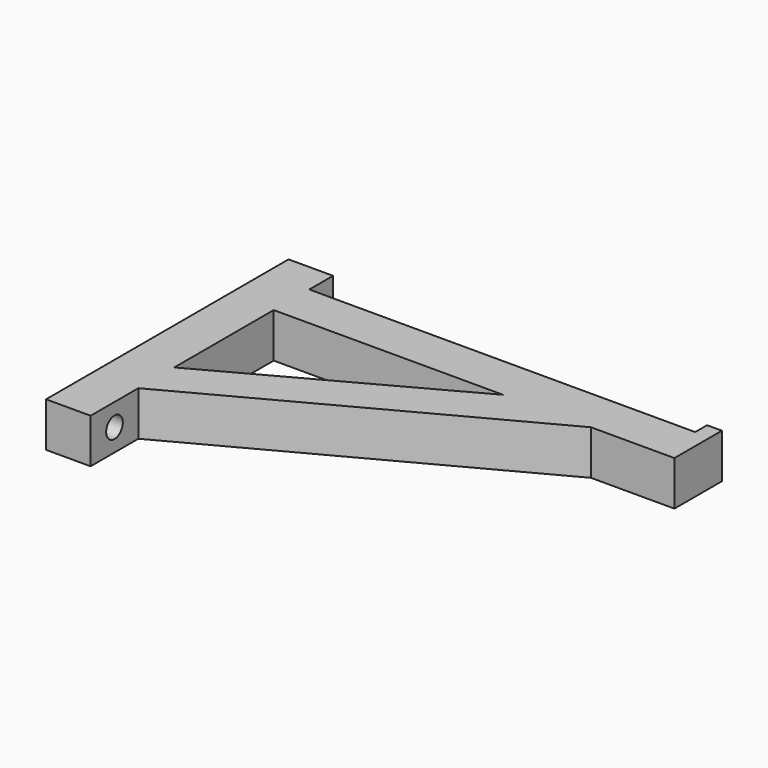
from build123d import *

# Parameters (mm, degrees)
F0_W     = 15
F0_H     = 15
F0_H_2   = 10
F0_W_2   = 5
F0_H_3   = 5
F1_DEPTH = 15
F2_R     = 1.4
F3_DEPTH = 25
F2_R_2   = 3.5
F4_DEPTH = 8
F5_R     = 3.5
F5_R_2   = 1.45
F6_DEPTH = 8
F7_DEPTH = 25


with BuildPart() as f1:
    # F0 (on Top) → F1 (new body)
    with BuildSketch(Plane.XY):
        Polygon((0, 15), (0, 0), (15, 8), (15, 23.125), align=None)
        Polygon((0, 65), (0, 15), (15, 23.125), (15, 65), align=None)
        Polygon((15, 23.125), (15, 8), (121.875, 65), (92.3076923077, 65), align=None)
        Polygon((15, 8), (0, 0), (0, -12.10534852), (15, -12.10534852), align=None)
        Polygon((15, 80), (15, 65), (92.3076923077, 65), (120, 80), align=None)
        with Locations((7.5, 72.5)):
            Rectangle(F0_W, F0_H)
        with Locations((7.5, 85)):
            Rectangle(F0_W, F0_H_2)
        Polygon((92.3076923077, 65), (121.875, 65), (150, 80), (145, 80), (120, 80), align=None)
        Polygon((150, 80), (121.875, 65), (150, 65), align=None)
        with Locations((147.5, 82.5)):
            Rectangle(F0_W_2, F0_H_3)
    extrude(amount=F1_DEPTH)

    # F2 (on face) → F3 (cut)
    with BuildSketch(Plane.YZ.offset(15)):
        with Locations((85, 7.5)):
            Circle(F2_R)
    extrude(amount=-F3_DEPTH, mode=Mode.SUBTRACT)

    # F2 (on face) → F4 (cut)
    with BuildSketch(Plane.YZ.offset(15)):
        with Locations((85, 7.5)):
            Circle(F2_R_2)
        with Locations((85, 7.5)):
            Circle(F2_R, mode=Mode.SUBTRACT)
    extrude(amount=-F4_DEPTH, mode=Mode.SUBTRACT)

    # F5 (on face) → F6 (cut)
    with BuildSketch(Plane.YZ.offset(15)):
        with Locations((-2.05267426, 7.5)):
            Circle(F5_R)
        with Locations((-2.05267426, 7.5)):
            Circle(F5_R_2, mode=Mode.SUBTRACT)
    extrude(amount=-F6_DEPTH, mode=Mode.SUBTRACT)

    # F7 (cut): a face of the model
    f7_faces = [f1.faces().sort_by_distance(p)[0] for p in [
        (15, -2.05267426, 7.5),
    ]]
    extrude(f7_faces, amount=-F7_DEPTH, mode=Mode.SUBTRACT)


solid = f1.part
